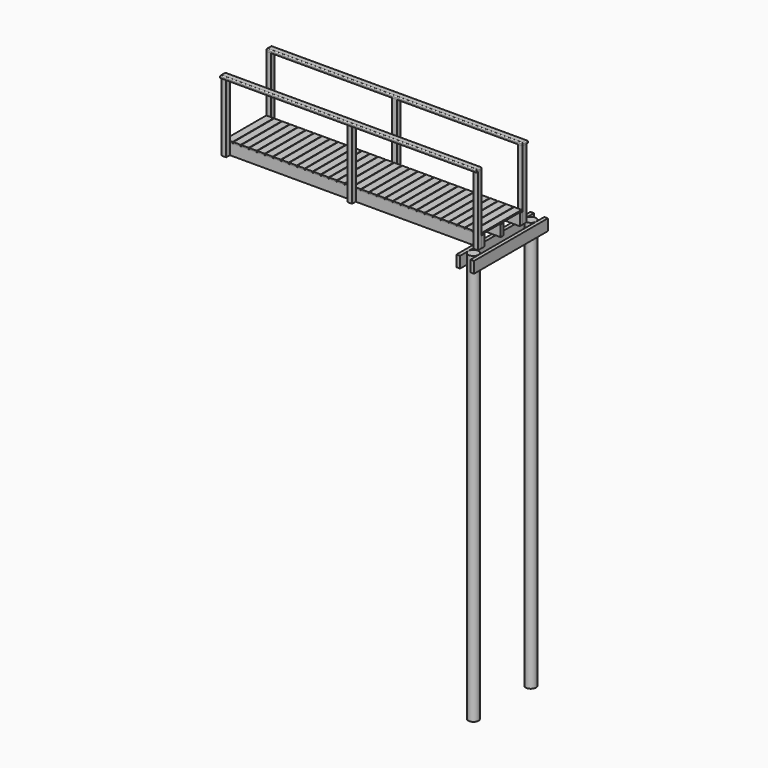
from build123d import *

# Parameters (mm, degrees)
F0_R      = 100
F2_DEPTH  = 8000
F1_W      = 70
F1_H      = 1800
F3_DEPTH  = 220
F4_W      = 5000
F4_H      = 70
F5_DEPTH  = 220
F6_W      = 145
F6_H      = 1000
F7_DEPTH  = 27
F8_W      = 90
F8_H      = 1347
F9_DEPTH  = 90
F10_W     = 90
F10_H     = 1347
F11_DEPTH = 90
F12_W     = 5000
F12_H     = 125
F13_DEPTH = 50
F14_R     = 20


with BuildPart() as f2:
    # F0 (on Top) → F2 (new body)
    with BuildSketch(Plane.XY):
        with Locations((-387.324933, 554.23081)):
            Circle(F0_R)
        with Locations((-387.324933, -845.76919)):
            Circle(F0_R)
    extrude(amount=-F2_DEPTH)


with BuildPart() as f3:
    # F1 (on Top) → F3 (new body)
    with BuildSketch(Plane.XY):
        with Locations((-522.324933, -145.76919)):
            Rectangle(F1_W, F1_H)
        with Locations((-250.722097, -145.76919)):
            Rectangle(F1_W, F1_H)
    extrude(amount=-F3_DEPTH)


with BuildPart() as f5:
    # F4 (on Top) → F5 (new body)
    with BuildSketch(Plane.XY):
        with Locations((-2887.324933, 319.23081)):
            Rectangle(F4_W, F4_H)
        with Locations((-2887.324933, -610.76919)):
            Rectangle(F4_W, F4_H)
        with Locations((-2887.324933, -145.76919)):
            Rectangle(F4_W, F4_H)
    extrude(amount=F5_DEPTH)


with BuildPart() as f7:
    # F6 (on face) → F7 (new body)
    with BuildSketch(Plane.XY.offset(220)):
        with Locations((-5314.824933, -145.76919)):
            Rectangle(F6_W, F6_H)
        with Locations((-5158.824933, -145.76919)):
            Rectangle(F6_W, F6_H)
        with Locations((-5002.824933, -145.76919)):
            Rectangle(F6_W, F6_H)
        with Locations((-4846.824933, -145.76919)):
            Rectangle(F6_W, F6_H)
        with Locations((-4690.824933, -145.76919)):
            Rectangle(F6_W, F6_H)
        with Locations((-4534.824933, -145.76919)):
            Rectangle(F6_W, F6_H)
        with Locations((-4378.824933, -145.76919)):
            Rectangle(F6_W, F6_H)
        with Locations((-4222.824933, -145.76919)):
            Rectangle(F6_W, F6_H)
        with Locations((-4066.824933, -145.76919)):
            Rectangle(F6_W, F6_H)
        with Locations((-3910.824933, -145.76919)):
            Rectangle(F6_W, F6_H)
        with Locations((-3754.824933, -145.76919)):
            Rectangle(F6_W, F6_H)
        with Locations((-3598.824933, -145.76919)):
            Rectangle(F6_W, F6_H)
        with Locations((-3442.824933, -145.76919)):
            Rectangle(F6_W, F6_H)
        with Locations((-3286.824933, -145.76919)):
            Rectangle(F6_W, F6_H)
        with Locations((-3130.824933, -145.76919)):
            Rectangle(F6_W, F6_H)
        with Locations((-2974.824933, -145.76919)):
            Rectangle(F6_W, F6_H)
        with Locations((-2818.824933, -145.76919)):
            Rectangle(F6_W, F6_H)
        with Locations((-2662.824933, -145.76919)):
            Rectangle(F6_W, F6_H)
        with Locations((-2506.824933, -145.76919)):
            Rectangle(F6_W, F6_H)
        with Locations((-2350.824933, -145.76919)):
            Rectangle(F6_W, F6_H)
        with Locations((-2194.824933, -145.76919)):
            Rectangle(F6_W, F6_H)
        with Locations((-2038.824933, -145.76919)):
            Rectangle(F6_W, F6_H)
        with Locations((-1882.824933, -145.76919)):
            Rectangle(F6_W, F6_H)
        with Locations((-1726.824933, -145.76919)):
            Rectangle(F6_W, F6_H)
        with Locations((-1570.824933, -145.76919)):
            Rectangle(F6_W, F6_H)
        with Locations((-1414.824933, -145.76919)):
            Rectangle(F6_W, F6_H)
        with Locations((-1258.824933, -145.76919)):
            Rectangle(F6_W, F6_H)
        with Locations((-1102.824933, -145.76919)):
            Rectangle(F6_W, F6_H)
        with Locations((-946.824933, -145.76919)):
            Rectangle(F6_W, F6_H)
        with Locations((-790.824933, -145.76919)):
            Rectangle(F6_W, F6_H)
        with Locations((-634.824933, -145.76919)):
            Rectangle(F6_W, F6_H)
        with Locations((-478.824933, -145.76919)):
            Rectangle(F6_W, F6_H)
    extrude(amount=F7_DEPTH)


with BuildPart() as f9:
    # F8 (on face) → F9 (new body)
    with BuildSketch(Plane.XZ.offset(645.76919)):
        with Locations((-5342.324933, 673.5)):
            Rectangle(F8_W, F8_H)
        with Locations((-432.324933, 673.5)):
            Rectangle(F8_W, F8_H)
        with Locations((-2887.324933, 673.5)):
            Rectangle(F8_W, F8_H)
    extrude(amount=F9_DEPTH)


with BuildPart() as f11:
    # F10 (on face) → F11 (new body)
    with BuildSketch(Plane(origin=(0, 354.23081, 0), x_dir=(-1, 0, 0), z_dir=(0, 1, 0))):
        with Locations((5342.324933, 673.5)):
            Rectangle(F10_W, F10_H)
        with Locations((2887.324933, 673.5)):
            Rectangle(F10_W, F10_H)
        with Locations((432.324933, 673.5)):
            Rectangle(F10_W, F10_H)
    extrude(amount=F11_DEPTH)


with BuildPart() as f13:
    # F12 (on face) → F13 (new body)
    with BuildSketch(Plane.XY.offset(1347)):
        with Locations((-2887.324933, 416.73081)):
            Rectangle(F12_W, F12_H)
        with Locations((-2887.324933, -708.26919)):
            Rectangle(F12_W, F12_H)
    extrude(amount=F13_DEPTH)

    # F14
    f14_edges = [f13.edges().sort_by_distance(p)[0] for p in [
        (-2887.324933, 479.23081, 1397),
        (-2887.324933, -770.76919, 1397),
        (-5387.324933, -708.26919, 1397),
        (-2887.324933, 354.23081, 1397),
        (-5387.324933, 416.73081, 1397),
        (-387.324933, 416.73081, 1397),
        (-2887.324933, -645.76919, 1397),
        (-387.324933, -708.26919, 1397),
    ]]
    fillet(f14_edges, radius=F14_R)


solid = Compound([f2.part, f3.part, f5.part, f7.part, f9.part, f11.part, f13.part])
